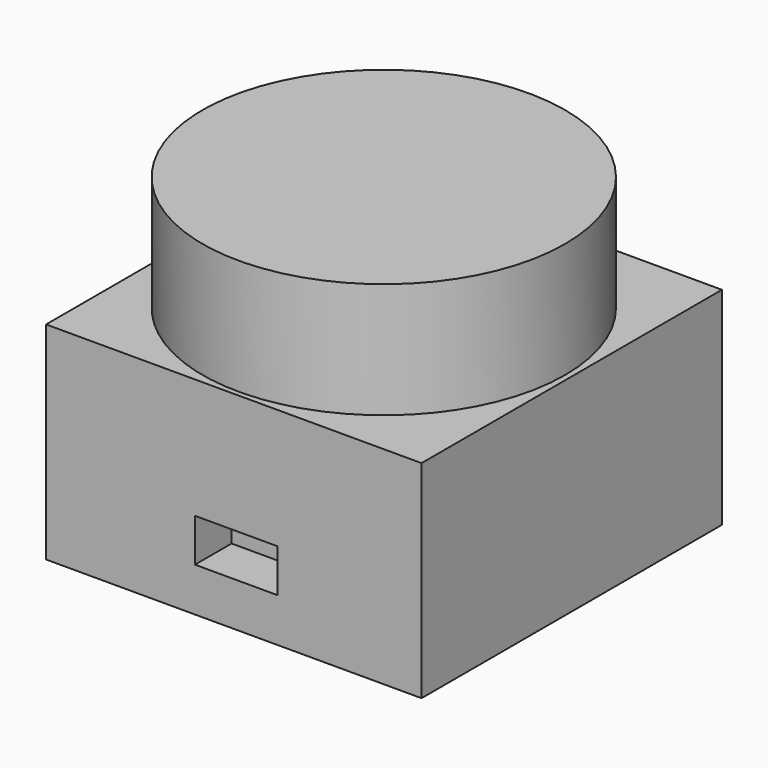
from build123d import *

# Parameters (mm, degrees)
SKETCH025_W     = 41
SKETCH025_H     = 41
PAD017_DEPTH    = 22.6
SKETCH026_R     = 19.8
PAD018_DEPTH    = 12.6
SKETCH027_W     = 9
SKETCH027_H     = 4.7
POCKET007_DEPTH = 5


with BuildPart() as part:
    # Sketch025 → Pad017 (new body)
    with BuildSketch(Plane.XY):
        with Locations((3.199544, 3.041725)):
            Rectangle(SKETCH025_W, SKETCH025_H)
    extrude(amount=PAD017_DEPTH)

    # Sketch026 (on Face6 of Pad017) → Pad018 (join)
    with BuildSketch(Plane.XY.offset(22.6)):
        with Locations((3.297032, 2.892403)):
            Circle(SKETCH026_R)
    extrude(amount=PAD018_DEPTH)

    # Sketch027 (on Face3 of Pad018) → Pocket007 (cut)
    with BuildSketch(Plane.XZ.offset(17.458275)):
        with Locations((3.457133, 7.14271)):
            Rectangle(SKETCH027_W, SKETCH027_H)
    extrude(amount=-POCKET007_DEPTH, mode=Mode.SUBTRACT)


with BuildPart() as part_1:
    # Body006 placement: moved
    add(part.part.moved(Location((-5, 10, 65))))


solid = part_1.part
